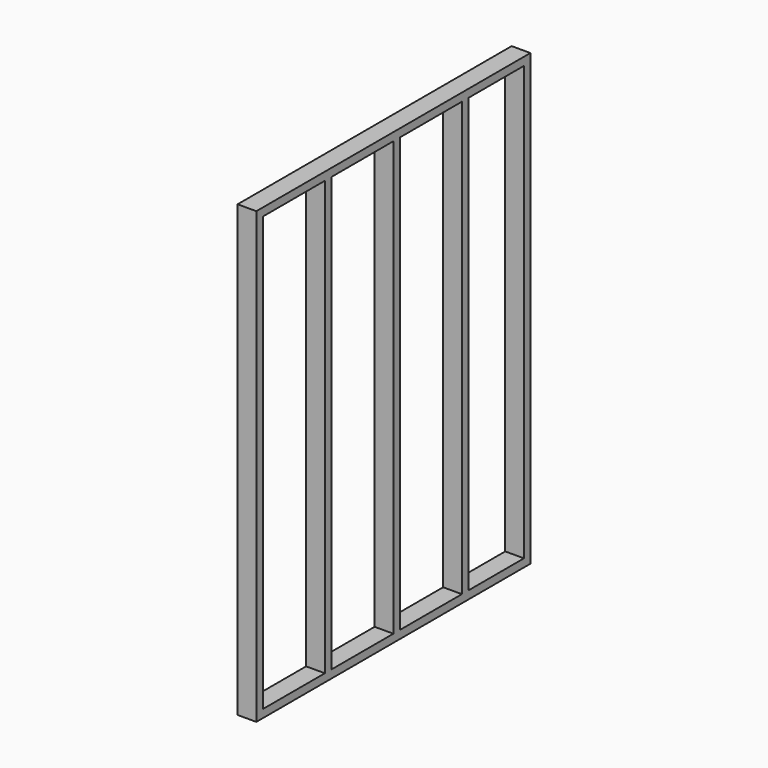
from build123d import *

# Parameters (mm, degrees)
F0_W     = 38.1
F0_H     = 2057.4
F1_DEPTH = 88.9


with BuildPart() as f1:
    # F0 (on Right) → F1 (new body)
    with BuildSketch(Plane.YZ):
        Polygon((-839.980144, -1011.107719), (-839.980144, -1049.207719), (785.619856, -1049.207719), (785.619856, -1011.107719), (747.519856, -1011.107719), (417.319856, -1011.107719), (379.219856, -1011.107719), (10.919856, -1011.107719), (-27.180144, -1011.107719), (-395.480144, -1011.107719), (-433.580144, -1011.107719), (-801.880144, -1011.107719), align=None)
        with Locations((-820.930144, 17.592281)):
            Rectangle(F0_W, F0_H)
        with Locations((766.569856, 17.592281)):
            Rectangle(F0_W, F0_H)
        Polygon((-839.980144, 1084.392281), (-839.980144, 1046.292281), (-801.880144, 1046.292281), (-433.580144, 1046.292281), (-395.480144, 1046.292281), (-27.180144, 1046.292281), (10.919856, 1046.292281), (379.219856, 1046.292281), (417.319856, 1046.292281), (747.519856, 1046.292281), (785.619856, 1046.292281), (785.619856, 1084.392281), align=None)
        with Locations((-414.530144, 17.592281)):
            Rectangle(F0_W, F0_H)
        with Locations((-8.130144, 17.592281)):
            Rectangle(F0_W, F0_H)
        with Locations((398.269856, 17.592281)):
            Rectangle(F0_W, F0_H)
    extrude(amount=F1_DEPTH)


solid = f1.part
